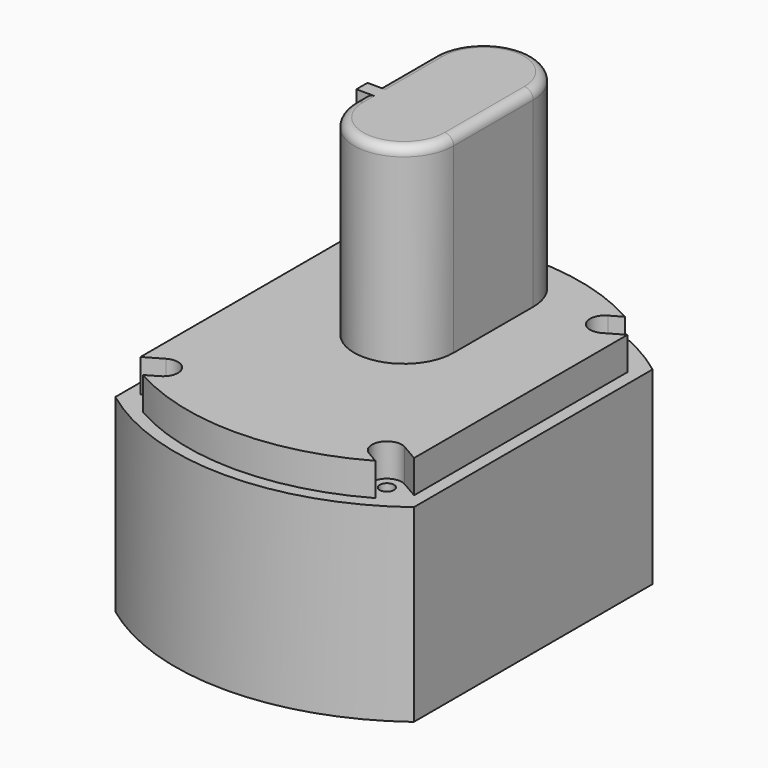
from build123d import *

# Parameters (mm, degrees)
F1_DEPTH  = 48.26
F3_DEPTH  = 8.382
F5_DEPTH  = 8.382
F6_R      = 1.8288
F7_DEPTH  = 32.8422
F9_DEPTH  = 57.15
F10_W     = 2.286
F10_H     = 3.556
F11_DEPTH = 48.768
F12_R     = 2.286


with BuildPart() as f1:
    # F0 (on Top) → F1 (new body)
    with BuildSketch(Plane.XY):
        with BuildLine():
            ThreePointArc((-38.1, -38.1), (0, -50.8), (38.1, -38.1))
            Line((38.1, -38.1), (38.1, 38.1))
            ThreePointArc((38.1, 38.1), (0, 50.8), (-38.1, 38.1))
            Line((-38.1, 38.1), (-38.1, -38.1))
        make_face()
    extrude(amount=-F1_DEPTH)

    # F2 (on face) → F3 (join)
    with BuildSketch(Plane.XY):
        with BuildLine():
            Line((-34.925, 36.486888), (-34.925, -36.486888))
            ThreePointArc((-34.925, -36.486888), (0, -47.625), (34.925, -36.486888))
            Line((34.925, -36.486888), (34.925, 36.486888))
            ThreePointArc((34.925, 36.486888), (0, 47.625), (-34.925, 36.486888))
        make_face()
    extrude(amount=F3_DEPTH)

    # F4 (on face) → F5 (cut, through all)
    with BuildSketch(Plane.XY.offset(8.382)):
        with BuildLine():
            ThreePointArc((-26.67, -38.092896), (-25.275443, -32.88834), (-30.48, -31.493783))
            Line((-30.48, -31.493783), (-52.477045, -44.193783))
            ThreePointArc((-52.477045, -44.193783), (-53.871602, -49.39834), (-48.667045, -50.792896))
            Line((-48.667045, -50.792896), (-26.67, -38.092896))
        make_face()
        with BuildLine():
            ThreePointArc((30.48, -31.493783), (25.275443, -32.88834), (26.67, -38.092896))
            Line((26.67, -38.092896), (48.667045, -50.792896))
            ThreePointArc((48.667045, -50.792896), (53.871602, -49.39834), (52.477045, -44.193783))
            Line((52.477045, -44.193783), (30.48, -31.493783))
        make_face()
        with BuildLine():
            Line((-52.477045, 44.193783), (-30.48, 31.493783))
            ThreePointArc((-30.48, 31.493783), (-25.275443, 32.88834), (-26.67, 38.092896))
            Line((-26.67, 38.092896), (-48.667045, 50.792896))
            ThreePointArc((-48.667045, 50.792896), (-53.871602, 49.39834), (-52.477045, 44.193783))
        make_face()
        with BuildLine():
            ThreePointArc((26.67, 38.092896), (25.275443, 32.88834), (30.48, 31.493783))
            Line((30.48, 31.493783), (52.477045, 44.193783))
            ThreePointArc((52.477045, 44.193783), (53.871602, 49.39834), (48.667045, 50.792896))
            Line((48.667045, 50.792896), (26.67, 38.092896))
        make_face()
    extrude(amount=-F5_DEPTH, mode=Mode.SUBTRACT)

    # F6 (on face) → F7 (cut)
    with BuildSketch(Plane.XY):
        with Locations((28.575, -34.79334)):
            Circle(F6_R)
        with Locations((-28.575, -34.79334)):
            Circle(F6_R)
        with Locations((-28.575, 34.79334)):
            Circle(F6_R)
        with Locations((28.575, 34.79334)):
            Circle(F6_R)
    extrude(amount=-F7_DEPTH, mode=Mode.SUBTRACT)

    # F8 (on Top) → F9 (join)
    with BuildSketch(Plane.XY):
        with BuildLine():
            ThreePointArc((-12.7, 6.35), (0, -6.35), (12.7, 6.35))
            Line((12.7, 6.35), (12.7, 31.75))
            ThreePointArc((12.7, 31.75), (0, 44.45), (-12.7, 31.75))
            Line((-12.7, 31.75), (-12.7, 6.35))
        make_face()
    extrude(amount=F9_DEPTH)

    # F10 (on face) → F11 (join, through all)
    with BuildSketch(Plane.XY.offset(8.382)):
        with Locations((-13.843, 11.684)):
            Rectangle(F10_W, F10_H)
    extrude(amount=F11_DEPTH)

    # F12
    f12_edges = [f1.edges().sort_by_distance(p)[0] for p in [
        (12.7, 19.05, 57.15),
    ]]
    fillet(f12_edges, radius=F12_R)


solid = f1.part
